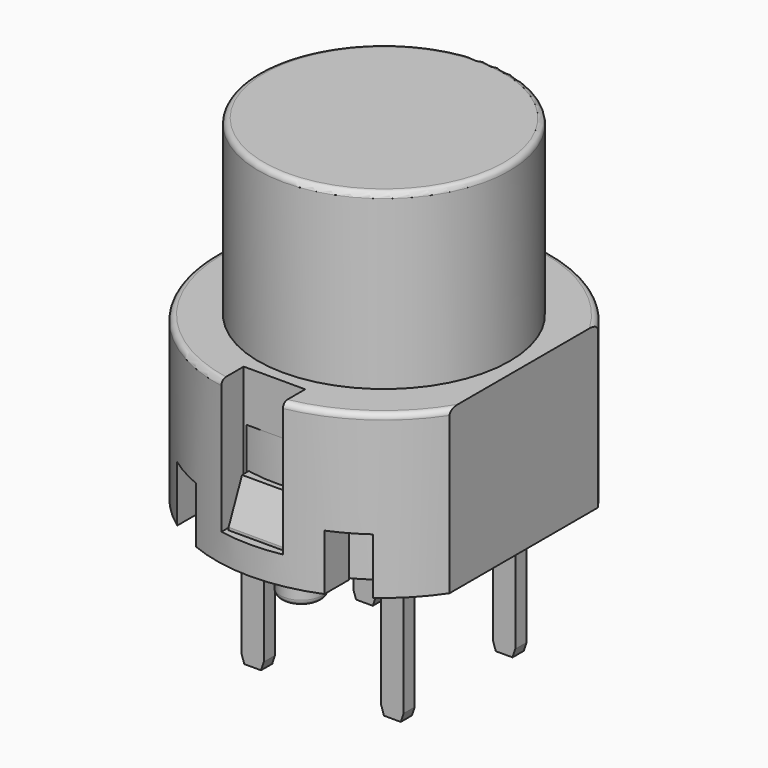
from build123d import *

# Parameters (mm, degrees)
CYLINDER004_R      = 0.75
CYLINDER004_DEPTH  = 10
FILLET_R           = 0.2
BOX002_W           = 1
BOX002_H           = 12
BOX002_DEPTH       = 5
CYLINDER006_R      = 4.9
CYLINDER006_DEPTH  = 4
CYLINDER002_R      = 1.775
CYLINDER002_DEPTH  = 10
FILLET002_R        = 0.2
CYLINDER003_R      = 0.75
CYLINDER003_DEPTH  = 10
FILLET003_R        = 0.2
CYLINDER_R         = 4.5
CYLINDER_DEPTH     = 7
FILLET004_R        = 0.2
BOX006_W           = 2.2
BOX006_H           = 3
BOX006_DEPTH       = 5
BOX005_W           = 2.2
BOX005_H           = 3
BOX005_DEPTH       = 5
BOX004_W           = 1.2
BOX004_H           = 12
BOX004_DEPTH       = 2
BOX003_W           = 1.2
BOX003_H           = 12
BOX003_DEPTH       = 2
BOX001_W           = 1
BOX001_H           = 12
BOX001_DEPTH       = 5
CYLINDER005_R      = 5
CYLINDER005_DEPTH  = 4
BOX_W              = 1
BOX_H              = 12
BOX_DEPTH          = 6
CYLINDER001_R      = 6
CYLINDER001_DEPTH  = 5.8
FILLET005_R        = 0.2
FILLET006_R        = 0.2
BOX007_W           = 0.8
BOX007_H           = 0.5
BOX007_DEPTH       = 10
CHAMFER_1_SIZE2    = 0.1
CHAMFER_1_SIZE     = 0.3
CHAMFER_2_SIZE2    = 0.1
CHAMFER_2_SIZE     = 0.3
BOX008_W           = 0.8
BOX008_H           = 0.5
BOX008_DEPTH       = 10
CHAMFER001_1_SIZE2 = 0.1
CHAMFER001_1_SIZE  = 0.3
CHAMFER001_2_SIZE2 = 0.1
CHAMFER001_2_SIZE  = 0.3
BOX009_W           = 0.8
BOX009_H           = 0.5
BOX009_DEPTH       = 10
CHAMFER002_1_SIZE2 = 0.1
CHAMFER002_1_SIZE  = 0.3
CHAMFER002_2_SIZE2 = 0.1
CHAMFER002_2_SIZE  = 0.3
BOX010_W           = 0.8
BOX010_H           = 0.5
BOX010_DEPTH       = 10
CHAMFER003_1_SIZE2 = 0.1
CHAMFER003_1_SIZE  = 0.3
CHAMFER003_2_SIZE2 = 0.1
CHAMFER003_2_SIZE  = 0.3
BOX012_W           = 2
BOX012_H           = 1.2
BOX012_DEPTH       = 1.5
CHAMFER005_SIZE2   = 0.6
CHAMFER005_SIZE    = 1.4
BOX013_W           = 2
BOX013_H           = 1.2
BOX013_DEPTH       = 1.5
CHAMFER006_SIZE2   = 0.6
CHAMFER006_SIZE    = 1.4


with BuildPart() as fillet_body:
    # Cylinder004 → Cylinder004 (new body)
    with BuildSketch(Plane(origin=(0, -3.7, -1.5), x_dir=(1, 0, 0), z_dir=(0, 0, 1))):
        Circle(CYLINDER004_R)
    extrude(amount=CYLINDER004_DEPTH)

    # Fillet
    fillet_edges = [fillet_body.edges().sort_by_distance(p)[0] for p in [
        (-0.75, -3.7, -1.5),
    ]]
    fillet(fillet_edges, radius=FILLET_R)


with BuildPart() as cube002:
    # Box002 → Box002 (new body)
    with BuildSketch(Plane(origin=(4.3, -6, 0), x_dir=(1, 0, 0), z_dir=(0, 0, 1))):
        with Locations((0.5, 6)):
            Rectangle(BOX002_W, BOX002_H)
    extrude(amount=BOX002_DEPTH)


with BuildPart() as cut003:
    # Cylinder006 → Cylinder006 (new body)
    with BuildSketch(Plane.XY):
        Circle(CYLINDER006_R)
    extrude(amount=CYLINDER006_DEPTH)

    # Cut003: cut Cube002
    add(cube002.part, mode=Mode.SUBTRACT)


with BuildPart() as fillet002:
    # Cylinder002 → Cylinder002 (new body)
    with BuildSketch(Plane.XY.offset(-1.5)):
        Circle(CYLINDER002_R)
    extrude(amount=CYLINDER002_DEPTH)

    # Fillet002
    fillet002_edges = [fillet002.edges().sort_by_distance(p)[0] for p in [
        (-1.775, 0, -1.5),
    ]]
    fillet(fillet002_edges, radius=FILLET002_R)


with BuildPart() as fillet003:
    # Cylinder003 → Cylinder003 (new body)
    with BuildSketch(Plane(origin=(0, 3.7, -1.5), x_dir=(1, 0, 0), z_dir=(0, 0, 1))):
        Circle(CYLINDER003_R)
    extrude(amount=CYLINDER003_DEPTH)

    # Fillet003
    fillet003_edges = [fillet003.edges().sort_by_distance(p)[0] for p in [
        (-0.75, 3.7, -1.5),
    ]]
    fillet(fillet003_edges, radius=FILLET003_R)


with BuildPart() as fillet004:
    # Cylinder → Cylinder (new body)
    with BuildSketch(Plane.XY.offset(5)):
        Circle(CYLINDER_R)
    extrude(amount=CYLINDER_DEPTH)

    # Fillet004
    fillet004_edges = [fillet004.edges().sort_by_distance(p)[0] for p in [
        (-4.5, 0, 12),
    ]]
    fillet(fillet004_edges, radius=FILLET004_R)


with BuildPart() as cube006:
    # Box006 → Box006 (new body)
    with BuildSketch(Plane(origin=(-1.1, 4.9, 1), x_dir=(1, 0, 0), z_dir=(0, 0, 1))):
        with Locations((1.1, 1.5)):
            Rectangle(BOX006_W, BOX006_H)
    extrude(amount=BOX006_DEPTH)


with BuildPart() as cube005:
    # Box005 → Box005 (new body)
    with BuildSketch(Plane(origin=(-1.1, -7.9, 1), x_dir=(1, 0, 0), z_dir=(0, 0, 1))):
        with Locations((1.1, 1.5)):
            Rectangle(BOX005_W, BOX005_H)
    extrude(amount=BOX005_DEPTH)


with BuildPart() as cube004:
    # Box004 → Box004 (new body)
    with BuildSketch(Plane(origin=(-3.5, -6, 0), x_dir=(1, 0, 0), z_dir=(0, 0, 1))):
        with Locations((0.6, 6)):
            Rectangle(BOX004_W, BOX004_H)
    extrude(amount=BOX004_DEPTH)


with BuildPart() as cube003:
    # Box003 → Box003 (new body)
    with BuildSketch(Plane(origin=(2.3, -6, 0), x_dir=(1, 0, 0), z_dir=(0, 0, 1))):
        with Locations((0.6, 6)):
            Rectangle(BOX003_W, BOX003_H)
    extrude(amount=BOX003_DEPTH)


with BuildPart() as cube001:
    # Box001 → Box001 (new body)
    with BuildSketch(Plane(origin=(4.4, -6, 0), x_dir=(1, 0, 0), z_dir=(0, 0, 1))):
        with Locations((0.5, 6)):
            Rectangle(BOX001_W, BOX001_H)
    extrude(amount=BOX001_DEPTH)


with BuildPart() as cut001:
    # Cylinder005 → Cylinder005 (new body)
    with BuildSketch(Plane.XY):
        Circle(CYLINDER005_R)
    extrude(amount=CYLINDER005_DEPTH)

    # Cut001: cut Cube001
    add(cube001.part, mode=Mode.SUBTRACT)


with BuildPart() as cube:
    # Box → Box (new body)
    with BuildSketch(Plane(origin=(5, -6, 0), x_dir=(1, 0, 0), z_dir=(0, 0, 1))):
        with Locations((0.5, 6)):
            Rectangle(BOX_W, BOX_H)
    extrude(amount=BOX_DEPTH)


with BuildPart() as fillet006:
    # Cylinder001 → Cylinder001 (new body)
    with BuildSketch(Plane.XY):
        Circle(CYLINDER001_R)
    extrude(amount=CYLINDER001_DEPTH)

    # Cut: cut Cube
    add(cube.part, mode=Mode.SUBTRACT)

    # Cut002: cut Cut001
    add(cut001.part, mode=Mode.SUBTRACT)

    # Cut004: cut Cube003
    add(cube003.part, mode=Mode.SUBTRACT)

    # Cut005: cut Cube004
    add(cube004.part, mode=Mode.SUBTRACT)

    # Cut006: cut Cube005
    add(cube005.part, mode=Mode.SUBTRACT)

    # Cut007: cut Cube006
    add(cube006.part, mode=Mode.SUBTRACT)

    # Fillet005
    fillet005_edges = [fillet006.edges().sort_by_distance(p)[0] for p in [
        (3.311913, 5.003122, 5.8),
        (-6, 0, 5.8),
    ]]
    fillet(fillet005_edges, radius=FILLET005_R)

    # Fillet006
    fillet006_edges = [fillet006.edges().sort_by_distance(p)[0] for p in [
        (3.311913, -5.003122, 5.8),
    ]]
    fillet(fillet006_edges, radius=FILLET006_R)


with BuildPart() as chamfer000:
    # Box007 → Box007 (new body)
    with BuildSketch(Plane.XY.offset(-5)):
        with Locations((0.4, 0.25)):
            Rectangle(BOX007_W, BOX007_H)
    extrude(amount=BOX007_DEPTH)

    # Chamfer 1
    chamfer_1_edges = [chamfer000.edges().sort_by_distance(p)[0] for p in [
        (0.8, 0.25, -5),
    ]]
    chamfer_1_side = chamfer000.faces().sort_by_distance((0.8, 0.25, 0))[0]
    chamfer(chamfer_1_edges, length=CHAMFER_1_SIZE, length2=CHAMFER_1_SIZE2, reference=chamfer_1_side)

    # Chamfer 2
    chamfer_2_edges = [chamfer000.edges().sort_by_distance(p)[0] for p in [
        (0, 0.25, -5),
    ]]
    chamfer_2_side = chamfer000.faces().sort_by_distance((0, 0.25, 0))[0]
    chamfer(chamfer_2_edges, length=CHAMFER_2_SIZE, length2=CHAMFER_2_SIZE2, reference=chamfer_2_side)


with BuildPart() as chamfer000_1:
    # Chamfer placement: moved
    add(chamfer000.part.moved(Location((-2.9, 2.25, 0))))


with BuildPart() as chamfer001:
    # Box008 → Box008 (new body)
    with BuildSketch(Plane.XY.offset(-5)):
        with Locations((0.4, 0.25)):
            Rectangle(BOX008_W, BOX008_H)
    extrude(amount=BOX008_DEPTH)

    # Chamfer001 1
    chamfer001_1_edges = [chamfer001.edges().sort_by_distance(p)[0] for p in [
        (0.8, 0.25, -5),
    ]]
    chamfer001_1_side = chamfer001.faces().sort_by_distance((0.8, 0.25, 0))[0]
    chamfer(chamfer001_1_edges, length=CHAMFER001_1_SIZE, length2=CHAMFER001_1_SIZE2, reference=chamfer001_1_side)

    # Chamfer001 2
    chamfer001_2_edges = [chamfer001.edges().sort_by_distance(p)[0] for p in [
        (0, 0.25, -5),
    ]]
    chamfer001_2_side = chamfer001.faces().sort_by_distance((0, 0.25, 0))[0]
    chamfer(chamfer001_2_edges, length=CHAMFER001_2_SIZE, length2=CHAMFER001_2_SIZE2, reference=chamfer001_2_side)


with BuildPart() as chamfer001_1:
    # Chamfer001 placement: moved
    add(chamfer001.part.moved(Location((-2.9, -2.75, 0))))


with BuildPart() as chamfer002:
    # Box009 → Box009 (new body)
    with BuildSketch(Plane.XY.offset(-5)):
        with Locations((0.4, 0.25)):
            Rectangle(BOX009_W, BOX009_H)
    extrude(amount=BOX009_DEPTH)

    # Chamfer002 1
    chamfer002_1_edges = [chamfer002.edges().sort_by_distance(p)[0] for p in [
        (0.8, 0.25, -5),
    ]]
    chamfer002_1_side = chamfer002.faces().sort_by_distance((0.8, 0.25, 0))[0]
    chamfer(chamfer002_1_edges, length=CHAMFER002_1_SIZE, length2=CHAMFER002_1_SIZE2, reference=chamfer002_1_side)

    # Chamfer002 2
    chamfer002_2_edges = [chamfer002.edges().sort_by_distance(p)[0] for p in [
        (0, 0.25, -5),
    ]]
    chamfer002_2_side = chamfer002.faces().sort_by_distance((0, 0.25, 0))[0]
    chamfer(chamfer002_2_edges, length=CHAMFER002_2_SIZE, length2=CHAMFER002_2_SIZE2, reference=chamfer002_2_side)


with BuildPart() as chamfer002_1:
    # Chamfer002 placement: moved
    add(chamfer002.part.moved(Location((2.1, -2.75, 0))))


with BuildPart() as chamfer003:
    # Box010 → Box010 (new body)
    with BuildSketch(Plane.XY.offset(-5)):
        with Locations((0.4, 0.25)):
            Rectangle(BOX010_W, BOX010_H)
    extrude(amount=BOX010_DEPTH)

    # Chamfer003 1
    chamfer003_1_edges = [chamfer003.edges().sort_by_distance(p)[0] for p in [
        (0.8, 0.25, -5),
    ]]
    chamfer003_1_side = chamfer003.faces().sort_by_distance((0.8, 0.25, 0))[0]
    chamfer(chamfer003_1_edges, length=CHAMFER003_1_SIZE, length2=CHAMFER003_1_SIZE2, reference=chamfer003_1_side)

    # Chamfer003 2
    chamfer003_2_edges = [chamfer003.edges().sort_by_distance(p)[0] for p in [
        (0, 0.25, -5),
    ]]
    chamfer003_2_side = chamfer003.faces().sort_by_distance((0, 0.25, 0))[0]
    chamfer(chamfer003_2_edges, length=CHAMFER003_2_SIZE, length2=CHAMFER003_2_SIZE2, reference=chamfer003_2_side)


with BuildPart() as chamfer003_1:
    # Chamfer003 placement: moved
    add(chamfer003.part.moved(Location((2.1, 2.25, 0))))


with BuildPart() as chamfer005:
    # Box012 → Box012 (new body)
    with BuildSketch(Plane(origin=(-1, -5.7, 1), x_dir=(1, 0, 0), z_dir=(0, 0, 1))):
        with Locations((1, 0.6)):
            Rectangle(BOX012_W, BOX012_H)
    extrude(amount=BOX012_DEPTH)

    # Chamfer005
    chamfer005_edges = [chamfer005.edges().sort_by_distance(p)[0] for p in [
        (0, -5.7, 2.5),
    ]]
    chamfer005_side = chamfer005.faces().sort_by_distance((0, -5.7, 1.75))[0]
    chamfer(chamfer005_edges, length=CHAMFER005_SIZE, length2=CHAMFER005_SIZE2, reference=chamfer005_side)


with BuildPart() as chamfer006:
    # Box013 → Box013 (new body)
    with BuildSketch(Plane(origin=(-1, 4.5, 1), x_dir=(1, 0, 0), z_dir=(0, 0, 1))):
        with Locations((1, 0.6)):
            Rectangle(BOX013_W, BOX013_H)
    extrude(amount=BOX013_DEPTH)

    # Chamfer006
    chamfer006_edges = [chamfer006.edges().sort_by_distance(p)[0] for p in [
        (0, 5.7, 2.5),
    ]]
    chamfer006_side = chamfer006.faces().sort_by_distance((0, 5.7, 1.75))[0]
    chamfer(chamfer006_edges, length=CHAMFER006_SIZE, length2=CHAMFER006_SIZE2, reference=chamfer006_side)


solid = Compound([fillet_body.part, cut003.part, fillet002.part, fillet003.part, fillet004.part, fillet006.part, chamfer000_1.part, chamfer001_1.part, chamfer002_1.part, chamfer003_1.part, chamfer005.part, chamfer006.part])
